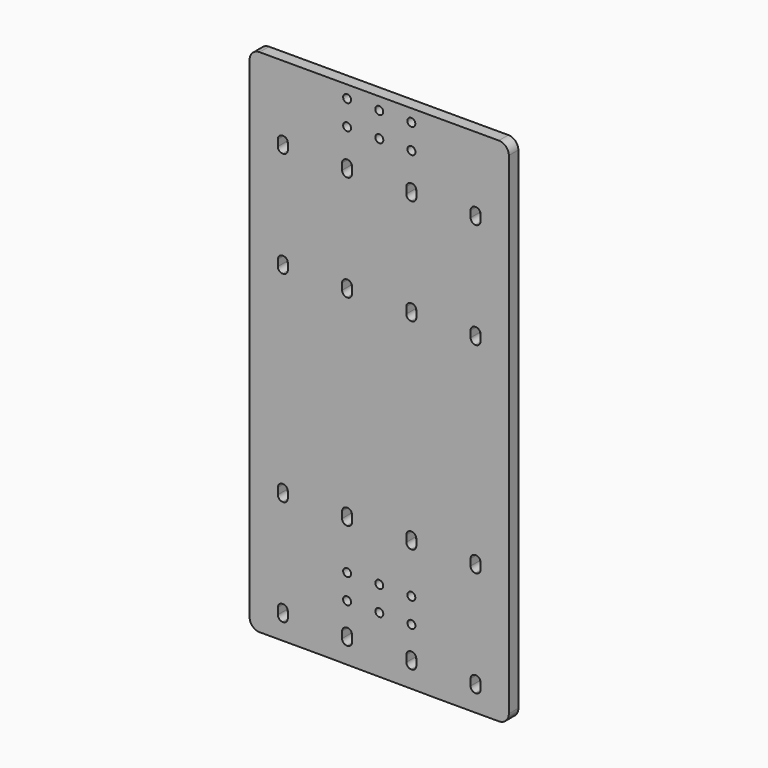
from build123d import *

# Parameters (mm, degrees)
F0_R     = 2
F1_DEPTH = 6


with BuildPart() as f1:
    # F0 (on Front) → F1 (new body)
    with BuildSketch(Plane.XZ):
        with BuildLine():
            ThreePointArc((-77.552805, 107.460736), (-79.017271, 110.99627), (-82.552805, 112.460736))
            Line((-82.552805, 112.460736), (-203.010698, 112.460736))
            ThreePointArc((-203.010698, 112.460736), (-206.546232, 110.99627), (-208.010698, 107.460736))
            Line((-208.010698, 107.460736), (-208.010698, -139.570798))
            ThreePointArc((-208.010698, -139.570798), (-206.546232, -143.106332), (-203.010698, -144.570798))
            Line((-203.010698, -144.570798), (-173.010698, -144.570798))
            Line((-173.010698, -144.570798), (-112.552805, -144.906804))
            Line((-112.552805, -144.906804), (-82.552805, -144.906804))
            ThreePointArc((-82.552805, -144.906804), (-79.017271, -143.442338), (-77.552805, -139.906804))
            Line((-77.552805, -139.906804), (-77.552805, 107.460736))
        make_face()
        with BuildLine():
            Line((-193.810254, -133.860357), (-193.810254, -130.634357))
            ThreePointArc((-193.810254, -130.634357), (-193.111118, -128.946493), (-191.423254, -128.247357))
            Line((-191.423254, -128.247357), (-191.197254, -128.247357))
            ThreePointArc((-191.197254, -128.247357), (-189.50939, -128.946493), (-188.810254, -130.634357))
            Line((-188.810254, -130.634357), (-188.810254, -133.860357))
            ThreePointArc((-188.810254, -133.860357), (-189.50939, -135.548221), (-191.197254, -136.247357))
            Line((-191.197254, -136.247357), (-191.423254, -136.247357))
            ThreePointArc((-191.423254, -136.247357), (-193.111118, -135.548221), (-193.810254, -133.860357))
        make_face(mode=Mode.SUBTRACT)
        with BuildLine():
            Line((-159.083254, -128.247357), (-158.857254, -128.247357))
            ThreePointArc((-158.857254, -128.247357), (-157.16939, -128.946493), (-156.470254, -130.634357))
            Line((-156.470254, -130.634357), (-156.470254, -133.860357))
            ThreePointArc((-156.470254, -133.860357), (-157.16939, -135.548221), (-158.857254, -136.247357))
            Line((-158.857254, -136.247357), (-159.083254, -136.247357))
            ThreePointArc((-159.083254, -136.247357), (-160.771118, -135.548221), (-161.470254, -133.860357))
            Line((-161.470254, -133.860357), (-161.470254, -130.634357))
            ThreePointArc((-161.470254, -130.634357), (-160.771118, -128.946493), (-159.083254, -128.247357))
        make_face(mode=Mode.SUBTRACT)
        with Locations((-158.951752, -116.289175)):
            Circle(F0_R, mode=Mode.SUBTRACT)
        with Locations((-158.951752, -103.789264)):
            Circle(F0_R, mode=Mode.SUBTRACT)
        with Locations((-142.781752, -103.789264)):
            Circle(F0_R, mode=Mode.SUBTRACT)
        with BuildLine():
            ThreePointArc((-193.810254, -77.454357), (-193.111118, -75.766493), (-191.423254, -75.067357))
            Line((-191.423254, -75.067357), (-191.197254, -75.067357))
            ThreePointArc((-191.197254, -75.067357), (-189.50939, -75.766493), (-188.810254, -77.454357))
            Line((-188.810254, -77.454357), (-188.810254, -80.680357))
            ThreePointArc((-188.810254, -80.680357), (-189.50939, -82.368221), (-191.197254, -83.067357))
            Line((-191.197254, -83.067357), (-191.423254, -83.067357))
            ThreePointArc((-191.423254, -83.067357), (-193.111118, -82.368221), (-193.810254, -80.680357))
            Line((-193.810254, -80.680357), (-193.810254, -77.454357))
        make_face(mode=Mode.SUBTRACT)
        with BuildLine():
            ThreePointArc((-161.470254, -77.454357), (-160.771118, -75.766493), (-159.083254, -75.067357))
            Line((-159.083254, -75.067357), (-158.857254, -75.067357))
            ThreePointArc((-158.857254, -75.067357), (-157.16939, -75.766493), (-156.470254, -77.454357))
            Line((-156.470254, -77.454357), (-156.470254, -80.680357))
            ThreePointArc((-156.470254, -80.680357), (-157.16939, -82.368221), (-158.857254, -83.067357))
            Line((-158.857254, -83.067357), (-159.083254, -83.067357))
            ThreePointArc((-159.083254, -83.067357), (-160.771118, -82.368221), (-161.470254, -80.680357))
            Line((-161.470254, -80.680357), (-161.470254, -77.454357))
        make_face(mode=Mode.SUBTRACT)
        with BuildLine():
            ThreePointArc((-129.130254, -130.634357), (-128.431118, -128.946493), (-126.743254, -128.247357))
            Line((-126.743254, -128.247357), (-126.517254, -128.247357))
            ThreePointArc((-126.517254, -128.247357), (-124.82939, -128.946493), (-124.130254, -130.634357))
            Line((-124.130254, -130.634357), (-124.130254, -133.860357))
            ThreePointArc((-124.130254, -133.860357), (-124.82939, -135.548221), (-126.517254, -136.247357))
            Line((-126.517254, -136.247357), (-126.743254, -136.247357))
            ThreePointArc((-126.743254, -136.247357), (-128.431118, -135.548221), (-129.130254, -133.860357))
            Line((-129.130254, -133.860357), (-129.130254, -130.634357))
        make_face(mode=Mode.SUBTRACT)
        with Locations((-142.734582, -116.289175)):
            Circle(F0_R, mode=Mode.SUBTRACT)
        with Locations((-126.564582, -116.289175)):
            Circle(F0_R, mode=Mode.SUBTRACT)
        with Locations((-126.611752, -103.789264)):
            Circle(F0_R, mode=Mode.SUBTRACT)
        with BuildLine():
            ThreePointArc((-94.403254, -136.247357), (-96.091118, -135.548221), (-96.790254, -133.860357))
            Line((-96.790254, -133.860357), (-96.790254, -130.634357))
            ThreePointArc((-96.790254, -130.634357), (-96.091118, -128.946493), (-94.403254, -128.247357))
            Line((-94.403254, -128.247357), (-94.177254, -128.247357))
            ThreePointArc((-94.177254, -128.247357), (-92.48939, -128.946493), (-91.790254, -130.634357))
            Line((-91.790254, -130.634357), (-91.790254, -133.860357))
            ThreePointArc((-91.790254, -133.860357), (-92.48939, -135.548221), (-94.177254, -136.247357))
            Line((-94.177254, -136.247357), (-94.403254, -136.247357))
        make_face(mode=Mode.SUBTRACT)
        with BuildLine():
            ThreePointArc((-129.130254, -77.454357), (-128.431118, -75.766493), (-126.743254, -75.067357))
            Line((-126.743254, -75.067357), (-126.517254, -75.067357))
            ThreePointArc((-126.517254, -75.067357), (-124.82939, -75.766493), (-124.130254, -77.454357))
            Line((-124.130254, -77.454357), (-124.130254, -80.680357))
            ThreePointArc((-124.130254, -80.680357), (-124.82939, -82.368221), (-126.517254, -83.067357))
            Line((-126.517254, -83.067357), (-126.743254, -83.067357))
            ThreePointArc((-126.743254, -83.067357), (-128.431118, -82.368221), (-129.130254, -80.680357))
            Line((-129.130254, -80.680357), (-129.130254, -77.454357))
        make_face(mode=Mode.SUBTRACT)
        with BuildLine():
            ThreePointArc((-94.177254, -75.067357), (-92.48939, -75.766493), (-91.790254, -77.454357))
            Line((-91.790254, -77.454357), (-91.790254, -80.680357))
            ThreePointArc((-91.790254, -80.680357), (-92.48939, -82.368221), (-94.177254, -83.067357))
            Line((-94.177254, -83.067357), (-94.403254, -83.067357))
            ThreePointArc((-94.403254, -83.067357), (-96.091118, -82.368221), (-96.790254, -80.680357))
            Line((-96.790254, -80.680357), (-96.790254, -77.454357))
            ThreePointArc((-96.790254, -77.454357), (-96.091118, -75.766493), (-94.403254, -75.067357))
            Line((-94.403254, -75.067357), (-94.177254, -75.067357))
        make_face(mode=Mode.SUBTRACT)
        with BuildLine():
            ThreePointArc((-191.423254, 18.072643), (-193.111118, 18.771779), (-193.810254, 20.459643))
            Line((-193.810254, 20.459643), (-193.810254, 23.685643))
            ThreePointArc((-193.810254, 23.685643), (-193.111118, 25.373507), (-191.423254, 26.072643))
            Line((-191.423254, 26.072643), (-191.197254, 26.072643))
            ThreePointArc((-191.197254, 26.072643), (-189.50939, 25.373507), (-188.810254, 23.685643))
            Line((-188.810254, 23.685643), (-188.810254, 20.459643))
            ThreePointArc((-188.810254, 20.459643), (-189.50939, 18.771779), (-191.197254, 18.072643))
            Line((-191.197254, 18.072643), (-191.423254, 18.072643))
        make_face(mode=Mode.SUBTRACT)
        with BuildLine():
            ThreePointArc((-159.083254, 18.072643), (-160.771118, 18.771779), (-161.470254, 20.459643))
            Line((-161.470254, 20.459643), (-161.470254, 23.685643))
            ThreePointArc((-161.470254, 23.685643), (-160.771118, 25.373507), (-159.083254, 26.072643))
            Line((-159.083254, 26.072643), (-158.857254, 26.072643))
            ThreePointArc((-158.857254, 26.072643), (-157.16939, 25.373507), (-156.470254, 23.685643))
            Line((-156.470254, 23.685643), (-156.470254, 20.459643))
            ThreePointArc((-156.470254, 20.459643), (-157.16939, 18.771779), (-158.857254, 18.072643))
            Line((-158.857254, 18.072643), (-159.083254, 18.072643))
        make_face(mode=Mode.SUBTRACT)
        with BuildLine():
            ThreePointArc((-191.423254, 71.252643), (-193.111118, 71.951779), (-193.810254, 73.639643))
            Line((-193.810254, 73.639643), (-193.810254, 76.865643))
            ThreePointArc((-193.810254, 76.865643), (-193.111118, 78.553507), (-191.423254, 79.252643))
            Line((-191.423254, 79.252643), (-191.197254, 79.252643))
            ThreePointArc((-191.197254, 79.252643), (-189.50939, 78.553507), (-188.810254, 76.865643))
            Line((-188.810254, 76.865643), (-188.810254, 73.639643))
            ThreePointArc((-188.810254, 73.639643), (-189.50939, 71.951779), (-191.197254, 71.252643))
            Line((-191.197254, 71.252643), (-191.423254, 71.252643))
        make_face(mode=Mode.SUBTRACT)
        with BuildLine():
            ThreePointArc((-159.083254, 71.252643), (-160.771118, 71.951779), (-161.470254, 73.639643))
            Line((-161.470254, 73.639643), (-161.470254, 76.865643))
            ThreePointArc((-161.470254, 76.865643), (-160.771118, 78.553507), (-159.083254, 79.252643))
            Line((-159.083254, 79.252643), (-158.857254, 79.252643))
            ThreePointArc((-158.857254, 79.252643), (-157.16939, 78.553507), (-156.470254, 76.865643))
            Line((-156.470254, 76.865643), (-156.470254, 73.639643))
            ThreePointArc((-156.470254, 73.639643), (-157.16939, 71.951779), (-158.857254, 71.252643))
            Line((-158.857254, 71.252643), (-159.083254, 71.252643))
        make_face(mode=Mode.SUBTRACT)
        with Locations((-158.951752, 93.710825)):
            Circle(F0_R, mode=Mode.SUBTRACT)
        with Locations((-158.951752, 106.210736)):
            Circle(F0_R, mode=Mode.SUBTRACT)
        with Locations((-142.781752, 106.210736)):
            Circle(F0_R, mode=Mode.SUBTRACT)
        with BuildLine():
            ThreePointArc((-126.743254, 18.072643), (-128.431118, 18.771779), (-129.130254, 20.459643))
            Line((-129.130254, 20.459643), (-129.130254, 23.685643))
            ThreePointArc((-129.130254, 23.685643), (-128.431118, 25.373507), (-126.743254, 26.072643))
            Line((-126.743254, 26.072643), (-126.517254, 26.072643))
            ThreePointArc((-126.517254, 26.072643), (-124.82939, 25.373507), (-124.130254, 23.685643))
            Line((-124.130254, 23.685643), (-124.130254, 20.459643))
            ThreePointArc((-124.130254, 20.459643), (-124.82939, 18.771779), (-126.517254, 18.072643))
            Line((-126.517254, 18.072643), (-126.743254, 18.072643))
        make_face(mode=Mode.SUBTRACT)
        with BuildLine():
            ThreePointArc((-94.403254, 18.072643), (-96.091118, 18.771779), (-96.790254, 20.459643))
            Line((-96.790254, 20.459643), (-96.790254, 23.685643))
            ThreePointArc((-96.790254, 23.685643), (-96.091118, 25.373507), (-94.403254, 26.072643))
            Line((-94.403254, 26.072643), (-94.177254, 26.072643))
            ThreePointArc((-94.177254, 26.072643), (-92.48939, 25.373507), (-91.790254, 23.685643))
            Line((-91.790254, 23.685643), (-91.790254, 20.459643))
            ThreePointArc((-91.790254, 20.459643), (-92.48939, 18.771779), (-94.177254, 18.072643))
            Line((-94.177254, 18.072643), (-94.403254, 18.072643))
        make_face(mode=Mode.SUBTRACT)
        with BuildLine():
            ThreePointArc((-126.743254, 71.252643), (-128.431118, 71.951779), (-129.130254, 73.639643))
            Line((-129.130254, 73.639643), (-129.130254, 76.865643))
            ThreePointArc((-129.130254, 76.865643), (-128.431118, 78.553507), (-126.743254, 79.252643))
            Line((-126.743254, 79.252643), (-126.517254, 79.252643))
            ThreePointArc((-126.517254, 79.252643), (-124.82939, 78.553507), (-124.130254, 76.865643))
            Line((-124.130254, 76.865643), (-124.130254, 73.639643))
            ThreePointArc((-124.130254, 73.639643), (-124.82939, 71.951779), (-126.517254, 71.252643))
            Line((-126.517254, 71.252643), (-126.743254, 71.252643))
        make_face(mode=Mode.SUBTRACT)
        with Locations((-142.734582, 93.710825)):
            Circle(F0_R, mode=Mode.SUBTRACT)
        with Locations((-126.564582, 93.710825)):
            Circle(F0_R, mode=Mode.SUBTRACT)
        with Locations((-126.611752, 106.210736)):
            Circle(F0_R, mode=Mode.SUBTRACT)
        with BuildLine():
            Line((-94.403254, 79.252643), (-94.177254, 79.252643))
            ThreePointArc((-94.177254, 79.252643), (-92.48939, 78.553507), (-91.790254, 76.865643))
            Line((-91.790254, 76.865643), (-91.790254, 73.639643))
            ThreePointArc((-91.790254, 73.639643), (-92.48939, 71.951779), (-94.177254, 71.252643))
            Line((-94.177254, 71.252643), (-94.403254, 71.252643))
            ThreePointArc((-94.403254, 71.252643), (-96.091118, 71.951779), (-96.790254, 73.639643))
            Line((-96.790254, 73.639643), (-96.790254, 76.865643))
            ThreePointArc((-96.790254, 76.865643), (-96.091118, 78.553507), (-94.403254, 79.252643))
        make_face(mode=Mode.SUBTRACT)
    extrude(amount=F1_DEPTH)


solid = f1.part
